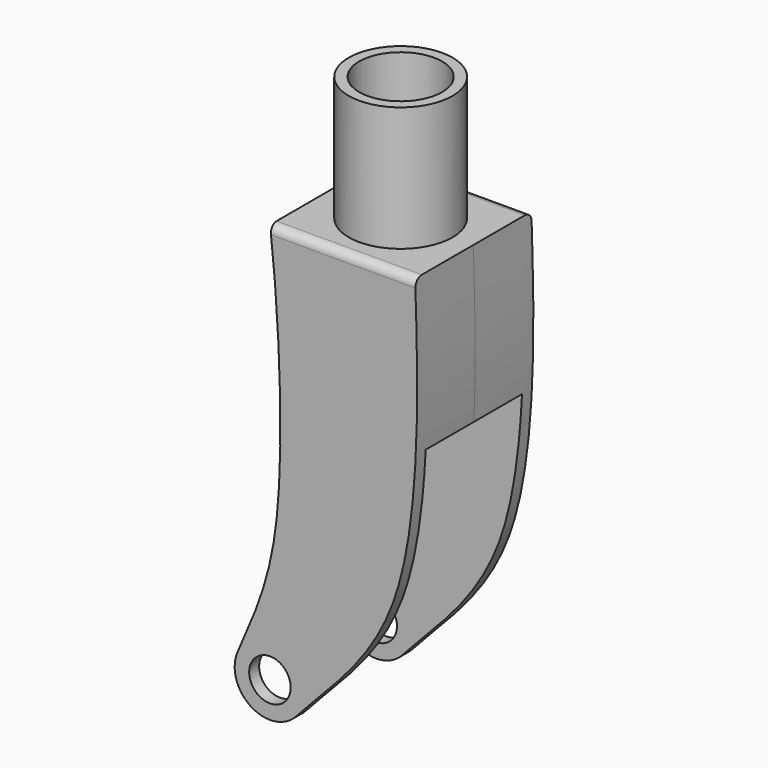
from build123d import *

# Parameters (mm, degrees)
F0_R     = 6.35
F1_DEPTH = 22.225
F3_START = -3.81
F2_R     = 6.35
F3_DEPTH = 36.83
F4_R     = 2.54
F5_R     = 15.875
F5_R_2   = 12.7
F6_DEPTH = 38.1


with BuildPart() as f1:
    # F0 (on Front) → F1 (new body, symmetric)
    with BuildSketch(Plane.XZ):
        with BuildLine():
            ThreePointArc((10.795, 0), (10.0903202689, -3.8363344316), (8.0682817284, -7.1718097403))
            add(Edge.make_bspline(
                [(8.0682817284, -7.1718097403), (18.3314368443, 4.3742337124), (49.2048537067, 28.6038800637), (44.8115600697, 105.7834102392), (44.45, 122.555)],
                knots=[0, 0, 0, 0, 0.437438064, 1, 1, 1, 1], degree=3))
            Line((44.45, 122.555), (0, 122.555))
            add(Edge.make_bspline(
                [(-9.7214930713, 4.693037126), (-5.6266365314, 14.4817428817), (7.0887204267, 39.064865347), (1.9933782166, 107.4782697451), (0, 122.555)],
                knots=[0.0153556046, 0.0153556046, 0.0153556046, 0.0153556046, 0.4111383309, 1, 1, 1, 1], degree=3))
            ThreePointArc((-9.7214930713, 4.693037126), (2.4071255987, 10.5232015733), (10.795, 0))
        make_face()
        with BuildLine():
            add(Edge.make_bspline(
                [(-10.1932944401, 3.5536985603), (-10.0377085134, 3.9336108023), (-9.8803655885, 4.313254267), (-9.7214930713, 4.693037126)],
                knots=[0, 0, 0, 0, 0.0153556046, 0.0153556046, 0.0153556046, 0.0153556046], degree=3))
            ThreePointArc((-10.1932944401, 3.5536985603), (-5.4669966008, -9.3082744463), (8.0682817284, -7.1718097403))
            ThreePointArc((8.0682817284, -7.1718097403), (10.0903202689, -3.8363344316), (10.795, 0))
            ThreePointArc((10.795, 0), (2.4071255987, 10.5232015733), (-9.7214930713, 4.693037126))
        make_face()
        Circle(F0_R, mode=Mode.SUBTRACT)
    extrude(amount=F1_DEPTH, both=True)

    # F2 (on face) → F3 (cut)
    with BuildSketch(Plane.XZ.offset(22.225).offset(F3_START)):
        with BuildLine():
            Line((44.6198632811, 74.9638513255), (3.1484367679, 74.9638513255))
            add(Edge.make_bspline(
                [(3.1484367679, 74.9638513255), (3.3300146443, 63.006702651), (2.3798836526, 29.1903381666), (-6.0275621352, 13.7256513389), (-10.1932944401, 3.5536985603)],
                knots=[0.3782225055, 0.3782225055, 0.3782225055, 0.3782225055, 0.6042172737, 1.0153556046, 1.0153556046, 1.0153556046, 1.0153556046], degree=3))
            ThreePointArc((-10.1932944401, 3.5536985603), (-5.4669966008, -9.3082744463), (8.0682817284, -7.1718097403))
            add(Edge.make_bspline(
                [(8.0682817284, -7.1718097403), (18.3314368443, 4.3742337124), (39.1338464971, 20.7000920192), (43.9250942912, 61.0653106264), (44.6198632811, 74.9638513255)],
                knots=[0, 0, 0, 0, 0.437438064, 0.6737968054, 0.6737968054, 0.6737968054, 0.6737968054], degree=3))
        make_face()
        Circle(F2_R, mode=Mode.SUBTRACT)
    extrude(amount=-F3_DEPTH, mode=Mode.SUBTRACT)

    # F4
    f4_edges = [f1.edges().sort_by_distance(p)[0] for p in [
        (22.225, -22.225, 122.555),
        (22.225, 22.225, 122.555),
    ]]
    fillet(f4_edges, radius=F4_R)

    # F5 (on face) → F6 (join)
    with BuildSketch(Plane.XY.offset(122.555)):
        with Locations((22.225, 0)):
            Circle(F5_R)
        with Locations((22.225, 0)):
            Circle(F5_R_2, mode=Mode.SUBTRACT)
    extrude(amount=F6_DEPTH)


solid = f1.part
